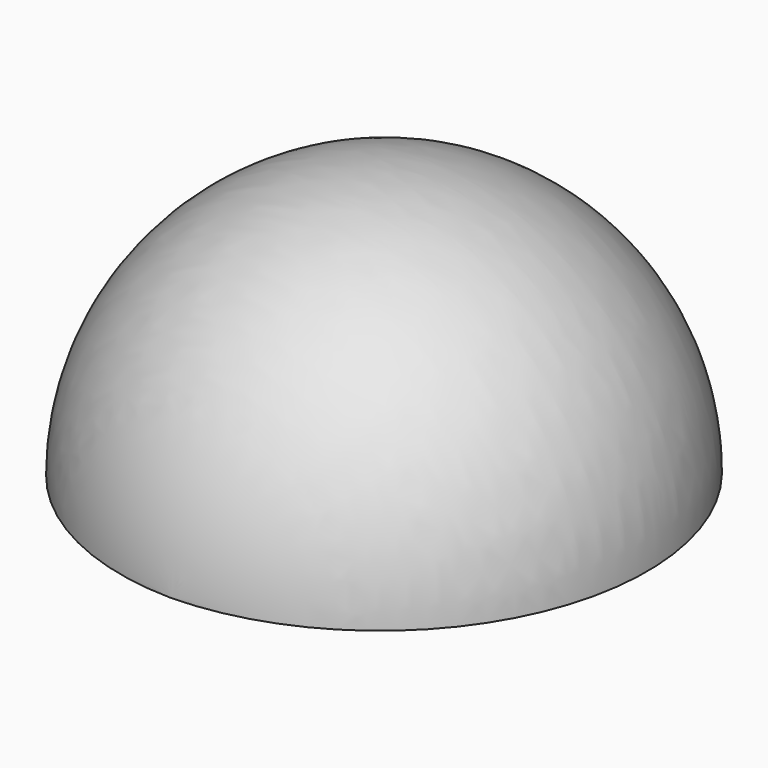
from build123d import *

# Parameters (mm, degrees)
F1_ANGLE = 180


with BuildPart() as f1:
    # F0 (on Top) → F1 (revolve)
    with BuildSketch(Plane.XY):
        with BuildLine():
            Line((0, 39.995096), (0, -39.995096))
            ThreePointArc((0, -39.995096), (39.373659, 0), (0, 39.995096))
        make_face()
    revolve(axis=Axis((0, 0, 0), (0, -1, 0)), revolution_arc=F1_ANGLE)

    # F2 (on face) → F3 (revolve, cut)
    with BuildSketch(Plane(origin=(0, 0, 0), x_dir=(1, 0, 0), z_dir=(0, 0, -1))):
        with BuildLine():
            Line((0, -37.5), (0, 37.5))
            ThreePointArc((0, 37.5), (-37.5, 0), (0, -37.5))
        make_face()
    revolve(axis=Axis((0, 0, 0), (0, 1, 0)), mode=Mode.SUBTRACT)


solid = f1.part
